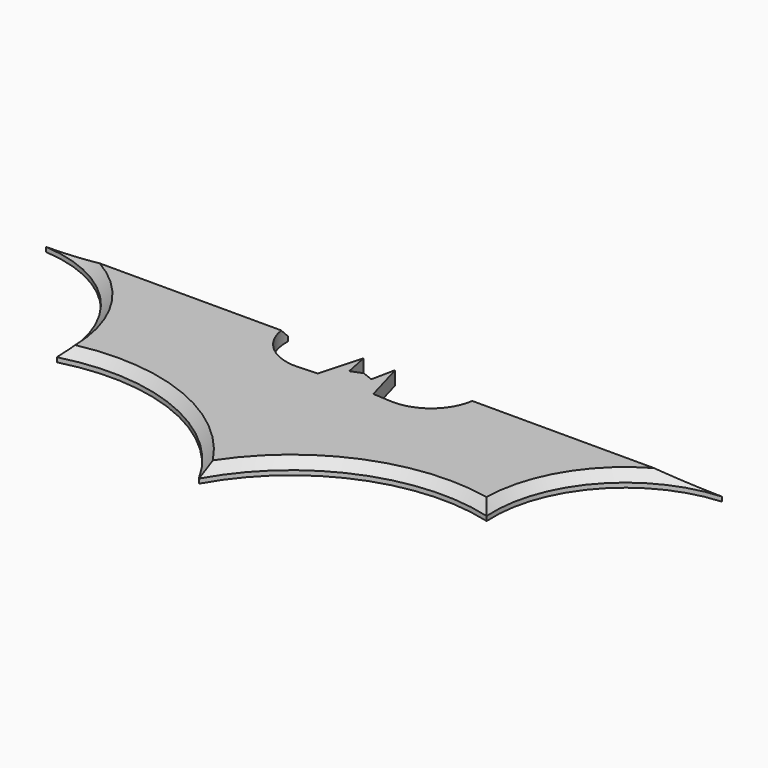
from build123d import *

# Parameters (mm, degrees)
PAD_DEPTH    = 3
CHAMFER_SIZE = 2


with BuildPart() as body:
    # Sketch → Pad (new body)
    with BuildSketch(Plane.XY):
        with BuildLine():
            Line((0, 0), (0, 14.502488))
            Line((0, 14.502488), (2.444644, 13.541802))
            Line((2.444644, 13.541802), (3.525413, 18.825575))
            Line((3.525413, 18.825575), (6.167308, 9.459041))
            Line((6.167308, 9.459041), (10.250262, 9.218303))
            ThreePointArc((10.250262, 9.218303), (18.202038, 12.211905), (21.296978, 20.124789))
            Line((21.296978, 20.124789), (75, 20.124789))
            ThreePointArc((75, 20.124789), (54.90279, 10.195186), (47.700768, -11.032761))
            ThreePointArc((47.700768, -11.032761), (20.35465, -12.880568), (0, -31.235753))
            Line((0, -31.235753), (0, 0))
        make_face()
    extrude(amount=PAD_DEPTH)

    # Chamfer
    chamfer_edges = [body.edges().sort_by_distance(p)[0] for p in [
        (20.35465, -12.880568, 3),
        (54.90279, 10.195186, 3),
        (48.148489, 20.124789, 3),
    ]]
    chamfer(chamfer_edges, length=CHAMFER_SIZE)


with BuildPart() as part_mirroring:
    # Part__Mirroring: instance of Body
    add(body.part.mirror(Plane(origin=(0, 0, 0), x_dir=(0, -1, 0), z_dir=(1, 0, 0))))


with BuildPart() as base_fusion:
    # Fusion base: copy of Body
    add(body.part)

    # Fusion: union Part__Mirroring
    add(part_mirroring.part)


with BuildPart() as base_fusion_1:
    # Clone placement: moved
    add(base_fusion.part.moved(Location((76, 34.520508, -4.003514))))


solid = base_fusion_1.part
